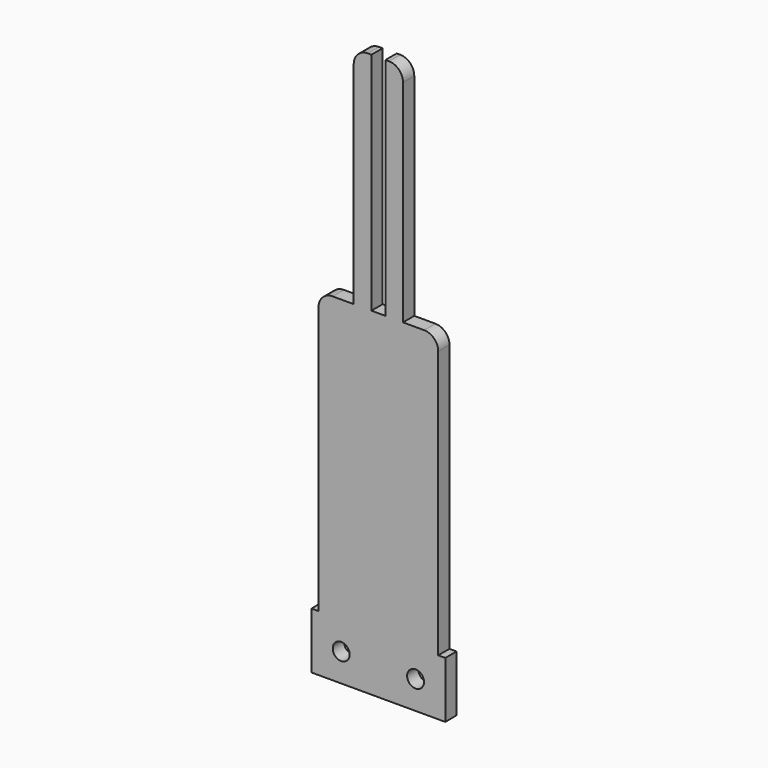
from build123d import *

# Parameters (mm, degrees)
F0_R     = 3.81
F1_DEPTH = 3.175


with BuildPart() as f1:
    # F0 (on Front) → F1 (new body, symmetric)
    with BuildSketch(Plane.XZ):
        with BuildLine():
            Line((0, -12.7), (26.9875, -12.7))
            Line((26.9875, -12.7), (30.1625, -12.7))
            Line((30.1625, -12.7), (30.1625, 12.7))
            Line((30.1625, 12.7), (26.9875, 12.7))
            Line((26.9875, 12.7), (26.9875, 133.35))
            ThreePointArc((26.9875, 133.35), (25.127628, 137.840128), (20.6375, 139.7))
            Line((20.6375, 139.7), (11.1125, 139.7))
            Line((11.1125, 139.7), (11.1125, 234.95))
            ThreePointArc((11.1125, 234.95), (9.252628, 239.440128), (4.7625, 241.3))
            Line((4.7625, 241.3), (3.20871, 241.3))
            Line((3.20871, 241.3), (3.172577, 139.7))
            Line((3.172577, 139.7), (-3.14129, 139.7))
            Line((-3.14129, 139.7), (-3.14129, 241.3))
            Line((-3.14129, 241.3), (-4.7625, 241.3))
            ThreePointArc((-4.7625, 241.3), (-9.252628, 239.440128), (-11.1125, 234.95))
            Line((-11.1125, 234.95), (-11.1125, 139.7))
            Line((-11.1125, 139.7), (-20.6375, 139.7))
            ThreePointArc((-20.6375, 139.7), (-25.127628, 137.840128), (-26.9875, 133.35))
            Line((-26.9875, 133.35), (-26.9875, 12.7))
            Line((-26.9875, 12.7), (-30.1625, 12.7))
            Line((-30.1625, 12.7), (-30.1625, -12.7))
            Line((-30.1625, -12.7), (-26.9875, -12.7))
            Line((-26.9875, -12.7), (-3.175, -12.7))
            Line((-3.175, -12.7), (0, -12.7))
        make_face()
        with Locations((-16.764, 0)):
            Circle(F0_R, mode=Mode.SUBTRACT)
        with Locations((16.764, 0)):
            Circle(F0_R, mode=Mode.SUBTRACT)
    extrude(amount=F1_DEPTH, both=True)


solid = f1.part
